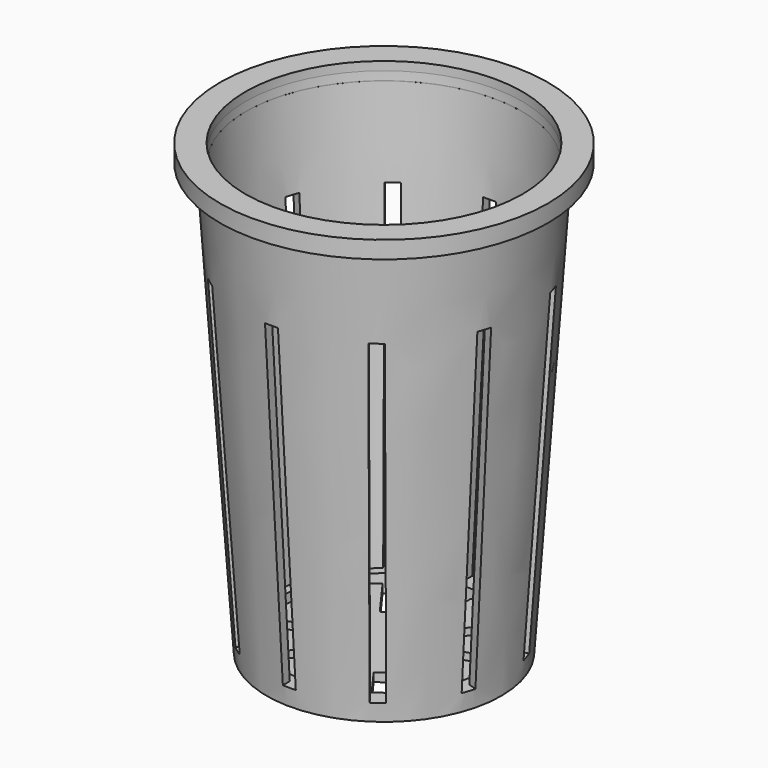
from build123d import *

# Parameters (mm, degrees)
F2_T     = -1.27
F3_DEPTH = 1.27
F5_R     = 20.32
F6_DEPTH = 25.4
F7_W     = 1.905
F7_H     = 19.812
F8_DEPTH = 50.8


with BuildPart() as f1:
    # F0 (on Front) → F1 (revolve)
    with BuildSketch(Plane.XZ):
        Polygon((0, 63.5), (0, 0), (17.272, 0), (21.59, 63.5), align=None)
        Polygon((0, 66.04), (0, 63.5), (21.59, 63.5), (24.13, 63.5), (24.13, 66.04), align=None)
    revolve(axis=Axis((0, 0, 31.75), (0, 0, 1)))

    # F2
    f2_openings = [f1.faces().sort_by_distance(p)[0] for p in [
        (0, 0, 66.04),
    ]]
    offset(amount=F2_T, openings=f2_openings, kind=Kind.INTERSECTION)

    # F3 (add): a face of the model
    f3_faces = [f1.faces().sort_by_distance(p)[0] for p in [
        (-22.2134215593, 0, 64.77),
    ]]
    extrude(f3_faces, amount=F3_DEPTH)

    # F5 (on offset) → F6 (cut)
    with BuildSketch(Plane.XY.offset(63.5)):
        Circle(F5_R)
    extrude(amount=F6_DEPTH, mode=Mode.SUBTRACT)

    # F7 (on Top) → F8 (cut)
    with BuildSketch(Plane.XY):
        Polygon((0.9525, -27.178), (0.9525, -7.366), (0, -7.366), (-0.9525, -7.366), (-0.9525, -27.178), align=None)
        Polygon((5.2068558942, -5.3647039539), (3.6656785199, -6.4844348595), (15.3108799383, -22.5126795521), (16.8520573126, -21.3929486464), align=None)
        Polygon((7.4723698113, -1.2449737892), (6.883692437, -3.0567364527), (25.7260241378, -9.1789811453), (26.3147015121, -7.3672184818), align=None)
        Polygon((6.883692437, 3.4195935956), (7.4723698113, 1.6078309321), (26.3147015121, 7.7300756246), (25.7260241378, 9.5418382882), align=None)
        Polygon((3.6656785199, 6.8472920024), (5.2068558942, 5.7275610967), (16.8520573126, 21.7558057893), (15.3108799383, 22.8755366949), align=None)
        with Locations((0, 17.6348571429)):
            Rectangle(F7_W, F7_H)
        Polygon((-5.2068558942, 5.7275610967), (-3.6656785199, 6.8472920024), (-15.3108799383, 22.8755366949), (-16.8520573126, 21.7558057893), align=None)
        Polygon((-7.4723698113, 1.6078309321), (-6.883692437, 3.4195935956), (-25.7260241378, 9.5418382882), (-26.3147015121, 7.7300756246), align=None)
        Polygon((-6.883692437, -3.0567364527), (-7.4723698113, -1.2449737892), (-26.3147015121, -7.3672184818), (-25.7260241378, -9.1789811453), align=None)
        Polygon((-3.6656785199, -6.4844348595), (-5.2068558942, -5.3647039539), (-16.8520573126, -21.3929486464), (-15.3108799383, -22.5126795521), align=None)
    extrude(amount=F8_DEPTH, mode=Mode.SUBTRACT)

    # F9 (on Front) → F10 (revolve)
    with BuildSketch(Plane.XZ):
        Polygon((14.9047199998, 2.54), (14.732, 0), (17.272, 0), (17.44472, 2.54), align=None)
    revolve(axis=Axis((0, 0, 1.27), (0, 0, 1)))


solid = f1.part
